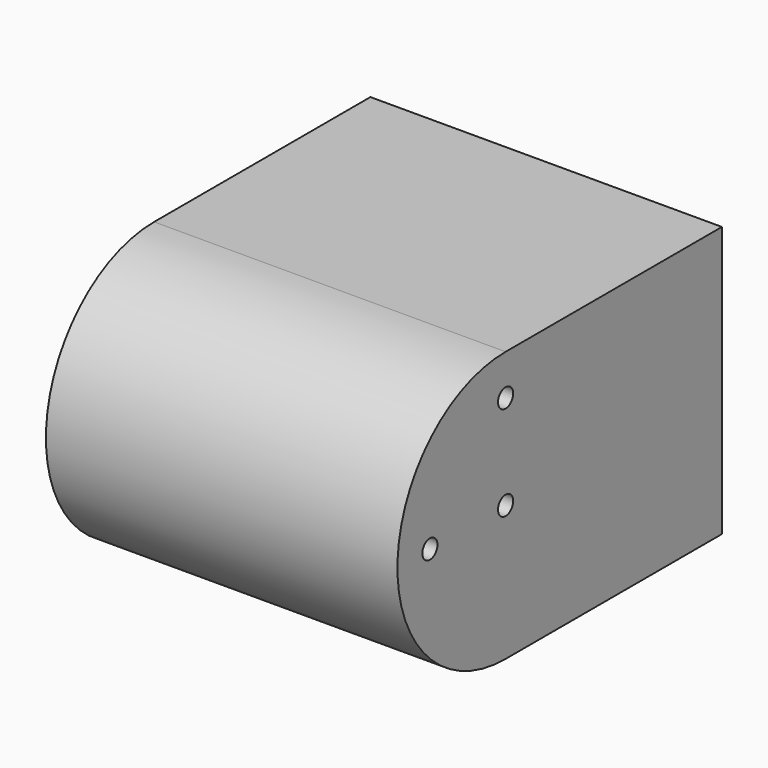
from build123d import *

# Parameters (mm, degrees)
F1_DEPTH = 65
F2_R     = 1.75
F3_DEPTH = 65


with BuildPart() as f1:
    # F0 (on Right) → F1 (new body)
    with BuildSketch(Plane.YZ):
        with BuildLine():
            Line((37.5, -25), (37.5, 25))
            Line((37.5, 25), (-12.5, 25))
            ThreePointArc((-12.5, 25), (-37.5, 0), (-12.5, -25))
            Line((-12.5, -25), (37.5, -25))
        make_face()
    extrude(amount=F1_DEPTH)

    # F2 (on face) → F3 (cut)
    with BuildSketch(Plane.YZ.offset(65)):
        with Locations((-12.5, 0)):
            Circle(F2_R)
        with Locations((-12.5, 17.5)):
            Circle(F2_R)
        with Locations((-30, 0)):
            Circle(F2_R)
    extrude(amount=-F3_DEPTH, mode=Mode.SUBTRACT)


solid = f1.part
